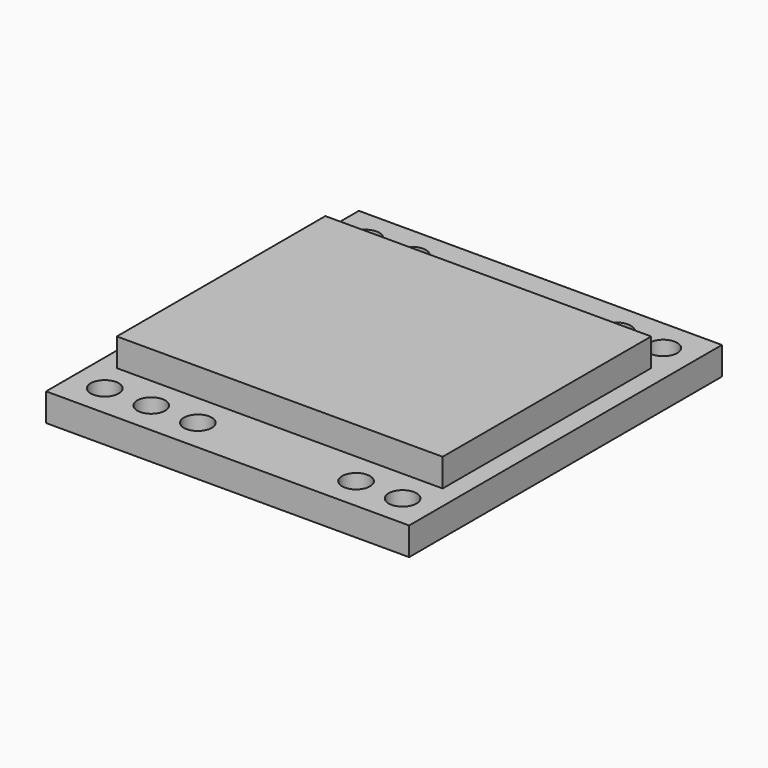
from build123d import *

# Parameters (mm, degrees)
F0_W     = 19.5
F0_H     = 21
F0_R     = 0.75
F0_W_2   = 17.5
F0_H_2   = 14
F1_DEPTH = 1.5
F2_DEPTH = 3


with BuildPart() as f1:
    # F0 (on Top) → F1 (new body)
    with BuildSketch(Plane.XY):
        Rectangle(F0_W, F0_H)
        with Locations((-8, -8.75)):
            Circle(F0_R, mode=Mode.SUBTRACT)
        with Locations((-5.5, -8.75)):
            Circle(F0_R, mode=Mode.SUBTRACT)
        with Locations((-3, -8.75)):
            Circle(F0_R, mode=Mode.SUBTRACT)
        with Locations((5.5, -8.75)):
            Circle(F0_R, mode=Mode.SUBTRACT)
        with Locations((8, -8.75)):
            Circle(F0_R, mode=Mode.SUBTRACT)
        with Locations((-8, 8.75)):
            Circle(F0_R, mode=Mode.SUBTRACT)
        with Locations((-5.5, 8.75)):
            Circle(F0_R, mode=Mode.SUBTRACT)
        Rectangle(F0_W_2, F0_H_2, mode=Mode.SUBTRACT)
        with Locations((5.5, 8.75)):
            Circle(F0_R, mode=Mode.SUBTRACT)
        with Locations((8, 8.75)):
            Circle(F0_R, mode=Mode.SUBTRACT)
    extrude(amount=F1_DEPTH)

    # F0 (on Top) → F2 (join)
    with BuildSketch(Plane.XY):
        Rectangle(F0_W_2, F0_H_2)
    extrude(amount=F2_DEPTH)


solid = f1.part
